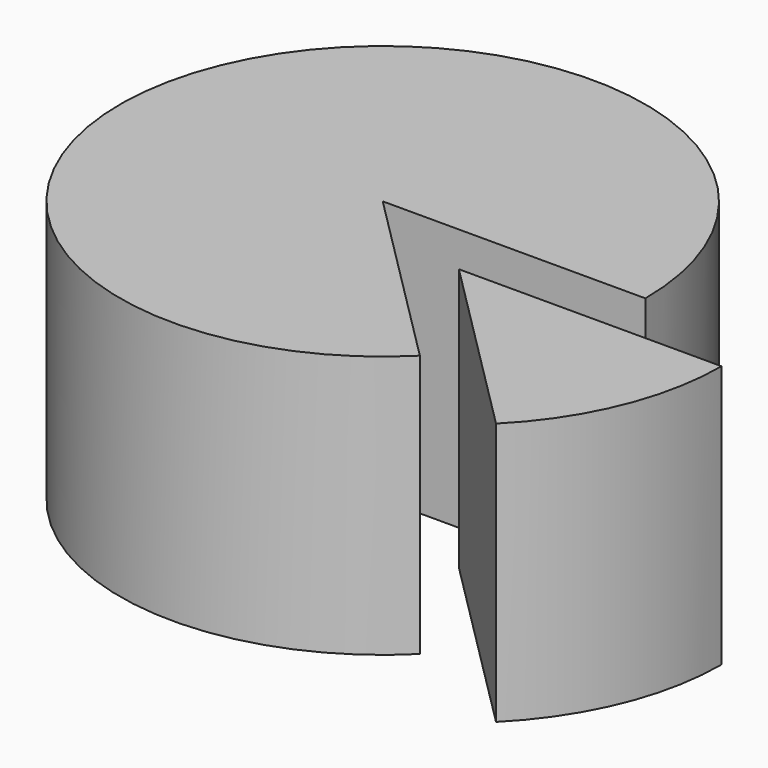
from build123d import *

# Parameters (mm, degrees)
CYLINDER_W                  = 20
CYLINDER_H                  = 20
CYLINDER_ANGLE              = 315
CYLINDER001_W               = 20
CYLINDER001_H               = 20
CYLINDER001_ANGLE           = 45
CYLINDER001_PLACEMENT_ANGLE = 45


with BuildPart() as cylinder:
    # Cylinder → Cylinder (revolve)
    with BuildSketch(Plane.XZ):
        with Locations((10, 10)):
            Rectangle(CYLINDER_W, CYLINDER_H)
    revolve(axis=Axis((0, 0, 0), (0, 0, 1)), revolution_arc=CYLINDER_ANGLE)


with BuildPart() as cylinder001:
    # Cylinder001 → Cylinder001 (revolve)
    with BuildSketch(Plane.XZ):
        with Locations((10, 10)):
            Rectangle(CYLINDER001_W, CYLINDER001_H)
    revolve(axis=Axis((0, 0, 0), (0, 0, 1)), revolution_arc=CYLINDER001_ANGLE)


with BuildPart() as cylinder001_1:
    # Cylinder001 placement: moved
    add(cylinder001.part.moved(Location((9, -4, 0))).rotate(Axis((9, -4, 0), (0, 0, -1)), CYLINDER001_PLACEMENT_ANGLE))


solid = Compound([cylinder.part, cylinder001_1.part])
